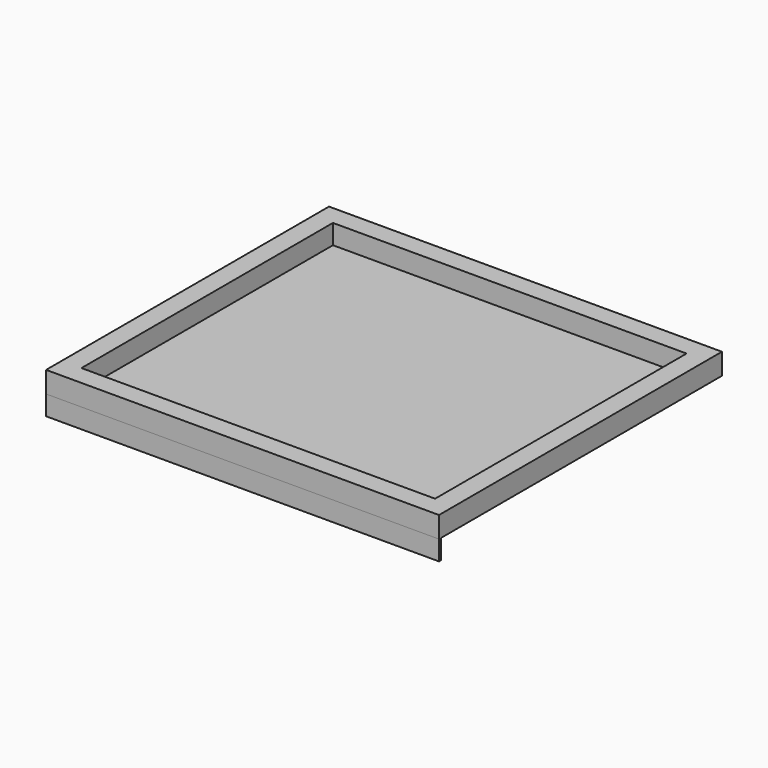
from build123d import *

# Parameters (mm, degrees)
F0_W     = 500
F0_H     = 450
F0_W_2   = 449.999994
F0_H_2   = 399.999994
F1_DEPTH = 2
F2_DEPTH = 27
F3_W     = 3
F3_H     = 25
F4_DEPTH = 500


with BuildPart() as f1:
    # F0 (on Top) → F1 (new body)
    with BuildSketch(Plane.XY):
        Rectangle(F0_W, F0_H)
        Rectangle(F0_W_2, F0_H_2, mode=Mode.SUBTRACT)
        Rectangle(F0_W_2, F0_H_2)
    extrude(amount=F1_DEPTH)


with BuildPart() as f2:
    # F0 (on Top) → F2 (new body)
    with BuildSketch(Plane.XY):
        Rectangle(F0_W, F0_H)
        Rectangle(F0_W_2, F0_H_2, mode=Mode.SUBTRACT)
    extrude(amount=F2_DEPTH)


with BuildPart() as f4:
    # F3 (on face) → F4 (new body)
    with BuildSketch(Plane.YZ.offset(250)):
        with Locations((-223.5, -12.5)):
            Rectangle(F3_W, F3_H)
    extrude(amount=-F4_DEPTH)


solid = Compound([f1.part, f2.part, f4.part])
